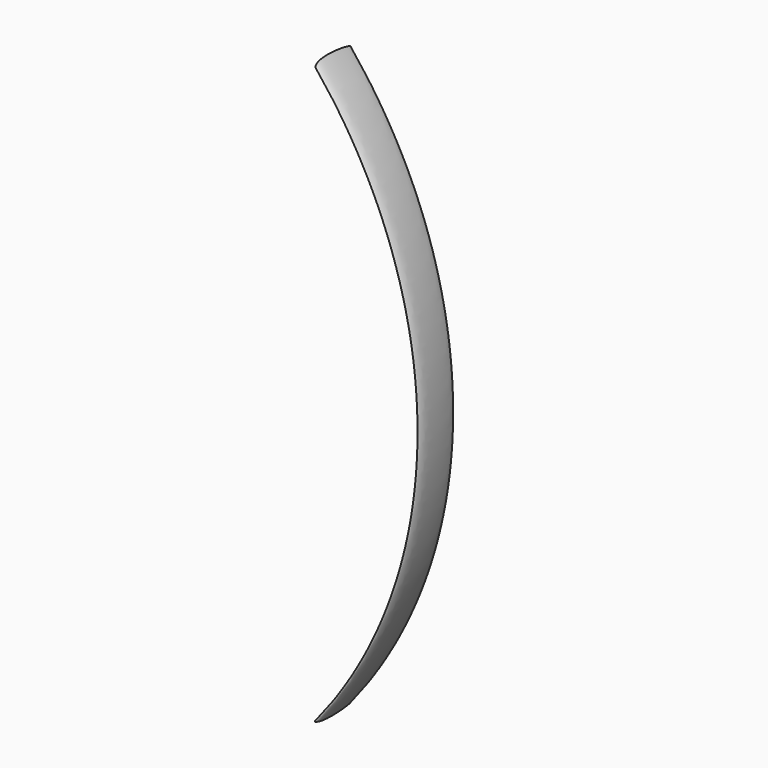
from build123d import *


with BuildPart() as f2:
    # F2: sweep along a path in F1
    with BuildLine(Plane.XZ) as f2_path:
        ThreePointArc((0, -2370.1641559601), (420.7375909512, -1185.08207798), (0, 0))
    # F0 (on Right) → F2 (sweep)
    with BuildSketch(Plane.YZ):
        with BuildLine():
            add(Edge.make_bspline(
                [(0, 10.8483051881), (12.7137730984, 18.8461791368), (69.9340519033, 25.1519129862), (228.7481379453, -1.1471021453), (69.7397181549, -20.6670596932), (2.8027121387, -11.2327958109), (-10.6818303305, -0.4391846853), (-5.2950506355, 7.5173390613), (0, 10.8483051881)],
                knots=[0, 0, 0, 0, 0.1980333822, 0.422410918, 0.6460073893, 0.8439576046, 0.9175227701, 1, 1, 1, 1], degree=3))
        make_face()
    sweep(path=f2_path.line)


solid = f2.part
